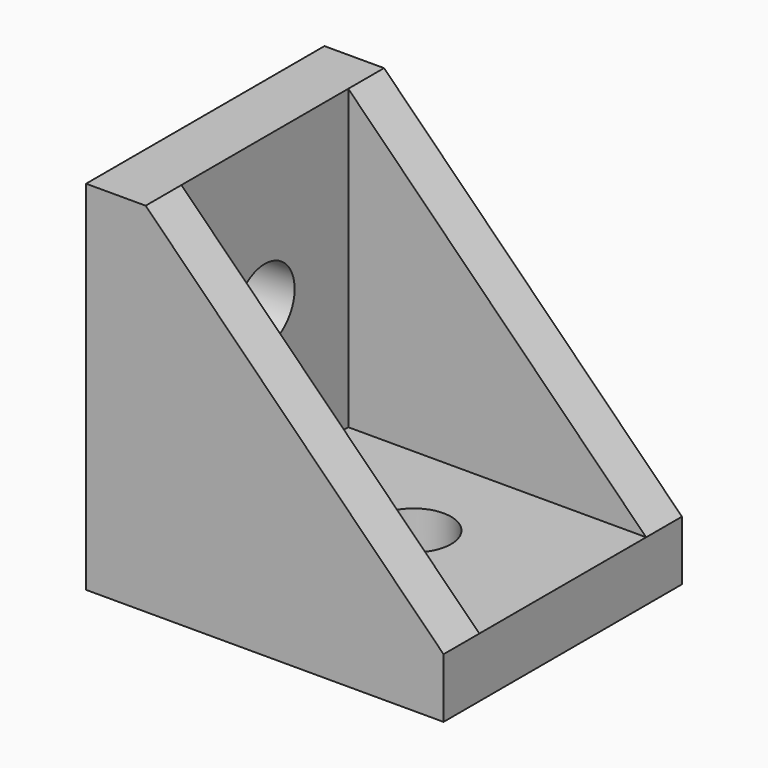
from build123d import *

# Parameters (mm, degrees)
PAD_DEPTH       = 20
SKETCH001_W     = 19.994943
SKETCH001_H     = 14
POCKET_DEPTH    = 20
SKETCH002_R     = 2.5
POCKET001_DEPTH = 5
SKETCH003_R     = 2.5
POCKET002_DEPTH = 5


with BuildPart() as part:
    # Sketch → Pad (new body)
    with BuildSketch(Plane.XZ):
        Polygon((-51.993317, 0), (-51.993317, 24.000334), (-47.994495, 24.000334), (-27.999552, 3.999817), (-27.999552, 0), align=None)
    extrude(amount=PAD_DEPTH)

    # Sketch001 → Pocket (cut)
    with BuildSketch(Plane(origin=(0, 0, 24.000334), x_dir=(-1, 0, 0), z_dir=(0, 0, 1))):
        with Locations((37.9970235, 10)):
            Rectangle(SKETCH001_W, SKETCH001_H)
    extrude(amount=-POCKET_DEPTH, mode=Mode.SUBTRACT)

    # Sketch002 → Pocket001 (cut)
    with BuildSketch(Plane(origin=(-47.994495, 0, 0), x_dir=(0, 0, 1), z_dir=(1, 0, 0))):
        with Locations((13.999817, 10)):
            Circle(SKETCH002_R)
    extrude(amount=-POCKET001_DEPTH, mode=Mode.SUBTRACT)

    # Sketch003 → Pocket002 (cut)
    with BuildSketch(Plane(origin=(0, 0, 4.000334), x_dir=(-1, 0, 0), z_dir=(0, 0, 1))):
        with Locations((37.994495, 10)):
            Circle(SKETCH003_R)
    extrude(amount=-POCKET002_DEPTH, mode=Mode.SUBTRACT)


solid = part.part
